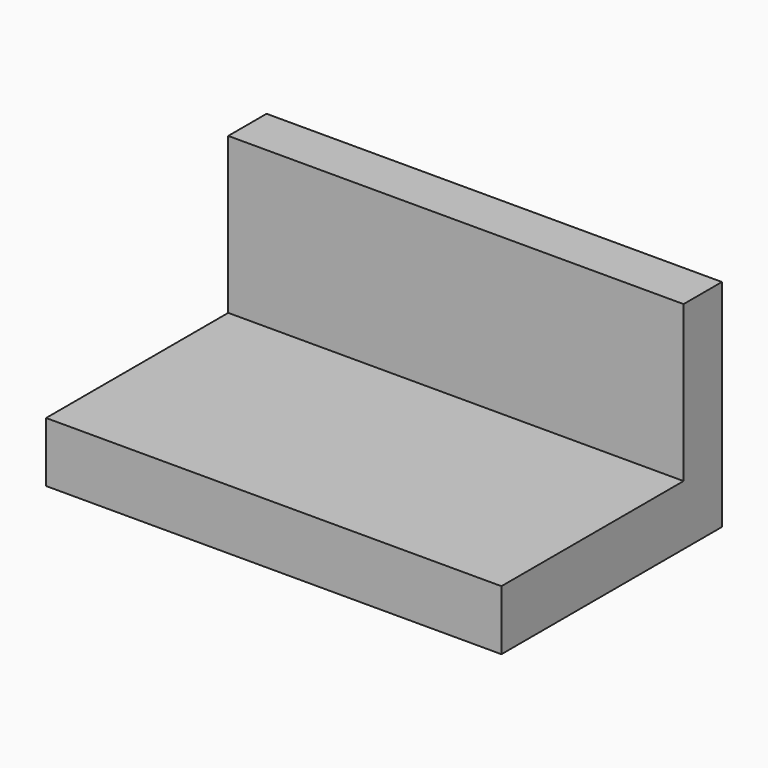
from build123d import *

# Parameters (mm, degrees)
BOX001_W     = 38
BOX001_H     = 4
BOX001_DEPTH = 14
BOX002_W     = 38
BOX002_H     = 23
BOX002_DEPTH = 5


with BuildPart() as cube001:
    # Box001 → Box001 (new body)
    with BuildSketch(Plane(origin=(0, 10, -4), x_dir=(1, 0, 0), z_dir=(0, 0, 1))):
        with Locations((19, 2)):
            Rectangle(BOX001_W, BOX001_H)
    extrude(amount=BOX001_DEPTH)


with BuildPart() as fusion024:
    # Box002 → Box002 (new body)
    with BuildSketch(Plane(origin=(0, -9, -8), x_dir=(1, 0, 0), z_dir=(0, 0, 1))):
        with Locations((19, 11.5)):
            Rectangle(BOX002_W, BOX002_H)
    extrude(amount=BOX002_DEPTH)

    # Fusion024: union Cube001
    add(cube001.part)


solid = fusion024.part
